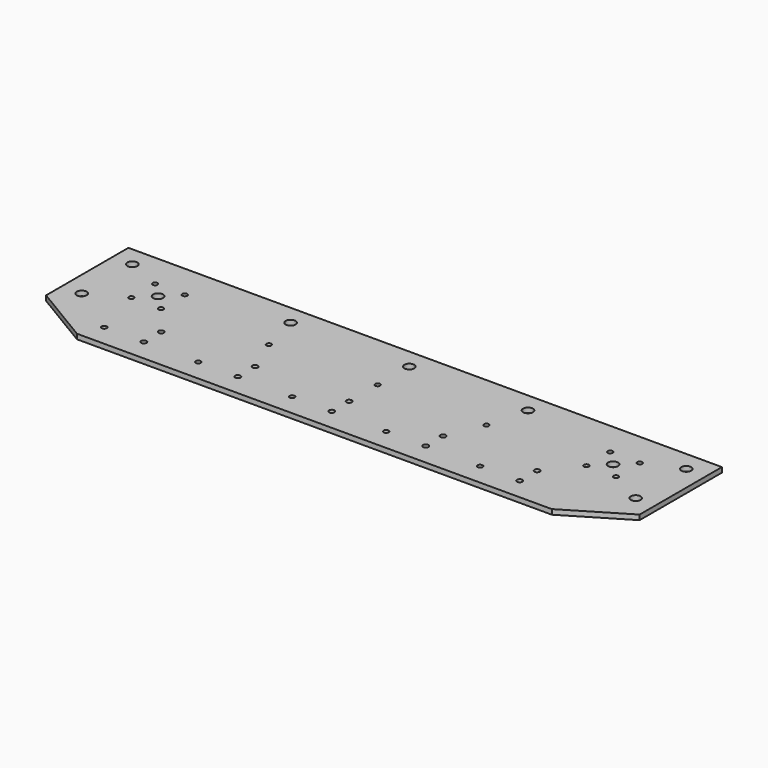
from build123d import *

# Parameters (mm, degrees)
F0_R     = 3.2385
F0_R_2   = 3.4925
F0_R_3   = 6.35
F0_R_4   = 3.175
F0_R_5   = 6.4135
F1_DEPTH = 6.35


with BuildPart() as f1:
    # F0 (on Top) → F1 (new body)
    with BuildSketch(Plane.XY):
        Polygon((762, 0), (0, 0), (0, -132.08), (76.2, -177.8), (685.8, -177.8), (762, -132.08), align=None)
        with Locations((88.9, -149.86)):
            Circle(F0_R, mode=Mode.SUBTRACT)
        with Locations((139.7, -149.86)):
            Circle(F0_R_2, mode=Mode.SUBTRACT)
        with Locations((209.55, -149.86)):
            Circle(F0_R, mode=Mode.SUBTRACT)
        with Locations((260.35, -149.86)):
            Circle(F0_R_2, mode=Mode.SUBTRACT)
        with Locations((330.2, -149.86)):
            Circle(F0_R, mode=Mode.SUBTRACT)
        with Locations((139.7, -121.92)):
            Circle(F0_R_2, mode=Mode.SUBTRACT)
        with Locations((25.4, -106.68)):
            Circle(F0_R_3, mode=Mode.SUBTRACT)
        with Locations((260.35, -121.92)):
            Circle(F0_R_2, mode=Mode.SUBTRACT)
        with Locations((381, -149.86)):
            Circle(F0_R_2, mode=Mode.SUBTRACT)
        with Locations((450.85, -149.86)):
            Circle(F0_R, mode=Mode.SUBTRACT)
        with Locations((501.65, -149.86)):
            Circle(F0_R_2, mode=Mode.SUBTRACT)
        with Locations((571.5, -149.86)):
            Circle(F0_R, mode=Mode.SUBTRACT)
        with Locations((622.3, -149.86)):
            Circle(F0_R_2, mode=Mode.SUBTRACT)
        with Locations((381, -121.92)):
            Circle(F0_R_2, mode=Mode.SUBTRACT)
        with Locations((501.65, -121.92)):
            Circle(F0_R_2, mode=Mode.SUBTRACT)
        with Locations((622.3, -121.92)):
            Circle(F0_R_2, mode=Mode.SUBTRACT)
        with Locations((736.6, -106.68)):
            Circle(F0_R_3, mode=Mode.SUBTRACT)
        with Locations((69.85, -82.55)):
            Circle(F0_R_4, mode=Mode.SUBTRACT)
        with Locations((107.95, -82.55)):
            Circle(F0_R_4, mode=Mode.SUBTRACT)
        with Locations((88.9, -63.5)):
            Circle(F0_R_5, mode=Mode.SUBTRACT)
        with Locations((241.3, -76.2)):
            Circle(F0_R_4, mode=Mode.SUBTRACT)
        with Locations((69.85, -44.45)):
            Circle(F0_R_4, mode=Mode.SUBTRACT)
        with Locations((25.4, -25.4)):
            Circle(F0_R_3, mode=Mode.SUBTRACT)
        with Locations((107.95, -44.45)):
            Circle(F0_R_4, mode=Mode.SUBTRACT)
        with Locations((228.6, -25.4)):
            Circle(F0_R_3, mode=Mode.SUBTRACT)
        with Locations((381, -76.2)):
            Circle(F0_R_4, mode=Mode.SUBTRACT)
        with Locations((520.7, -76.2)):
            Circle(F0_R_4, mode=Mode.SUBTRACT)
        with Locations((654.05, -82.55)):
            Circle(F0_R_4, mode=Mode.SUBTRACT)
        with Locations((692.15, -82.55)):
            Circle(F0_R_4, mode=Mode.SUBTRACT)
        with Locations((673.1, -63.5)):
            Circle(F0_R_5, mode=Mode.SUBTRACT)
        with Locations((381, -25.4)):
            Circle(F0_R_3, mode=Mode.SUBTRACT)
        with Locations((533.4, -25.4)):
            Circle(F0_R_3, mode=Mode.SUBTRACT)
        with Locations((654.05, -44.45)):
            Circle(F0_R_4, mode=Mode.SUBTRACT)
        with Locations((692.15, -44.45)):
            Circle(F0_R_4, mode=Mode.SUBTRACT)
        with Locations((736.6, -25.4)):
            Circle(F0_R_3, mode=Mode.SUBTRACT)
    extrude(amount=F1_DEPTH)


solid = f1.part
